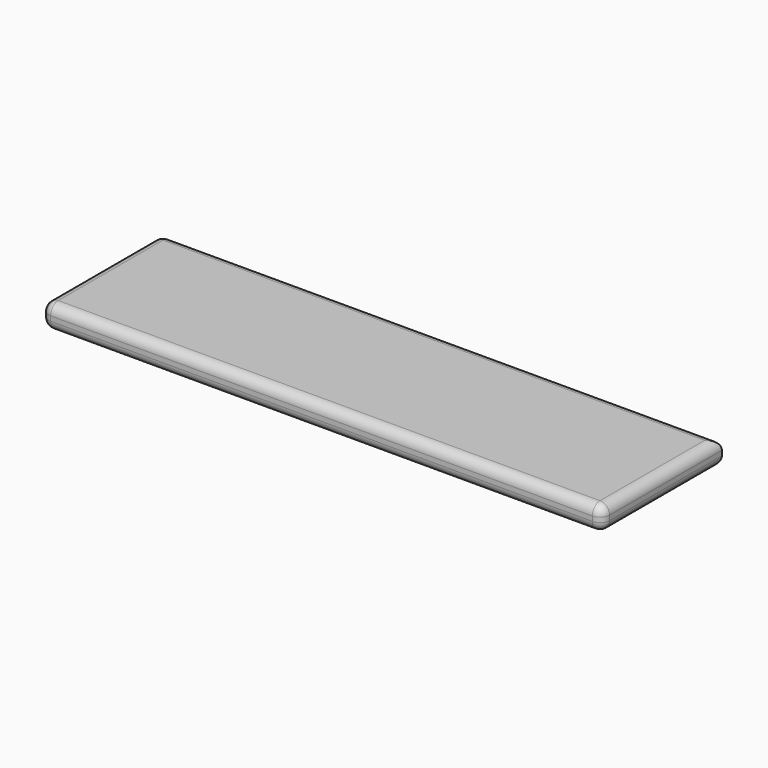
from build123d import *

# Parameters (mm, degrees)
F0_W     = 117.3992
F0_H     = 31.391128
F1_DEPTH = 5
F2_R     = 2
F3_R     = 2
F4_R     = 2
F5_R     = 2


with BuildPart() as f1:
    # F0 (on Top) → F1 (new body)
    with BuildSketch(Plane.XY):
        Rectangle(F0_W, F0_H)
    extrude(amount=F1_DEPTH)

    # F2
    f2_edges = [f1.edges().sort_by_distance(p)[0] for p in [
        (0, -15.695564, 5),
    ]]
    fillet(f2_edges, radius=F2_R)

    # F3
    f3_edges = [f1.edges().sort_by_distance(p)[0] for p in [
        (58.6996, 1, 5),
        (0, 15.695564, 5),
    ]]
    fillet(f3_edges, radius=F3_R)

    # F4
    f4_edges = [f1.edges().sort_by_distance(p)[0] for p in [
        (-58.6996, 0, 5),
    ]]
    fillet(f4_edges, radius=F4_R)

    # F5
    f5_edges = [f1.edges().sort_by_distance(p)[0] for p in [
        (-58.6996, 0, 0),
        (0, -15.695564, 0),
        (1, 15.695564, 0),
        (58.6996, 1, 0),
    ]]
    fillet(f5_edges, radius=F5_R)


solid = f1.part
